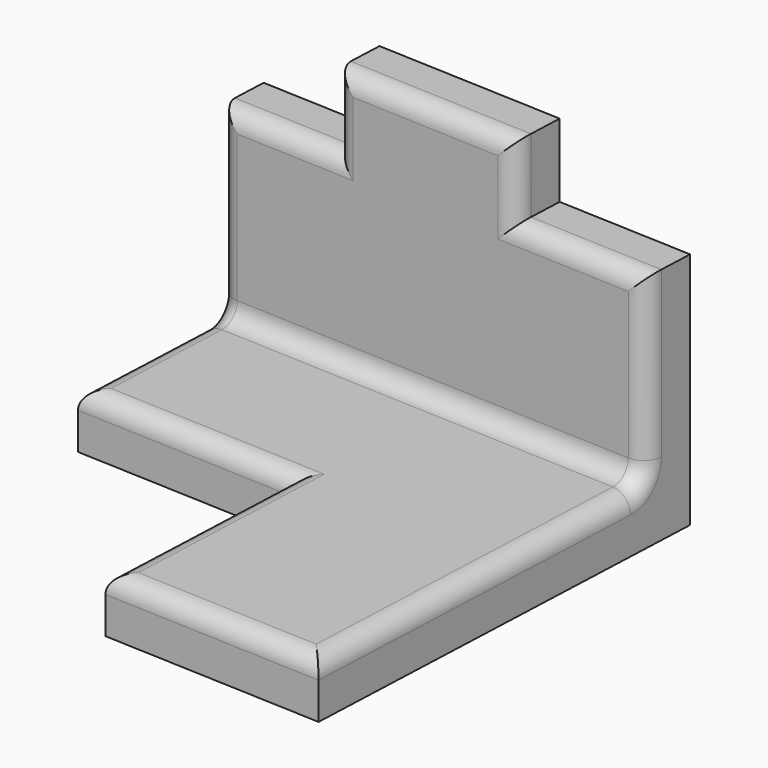
from build123d import *

# Parameters (mm, degrees)
F1_DEPTH = 15
F0_W     = 120.46892941
F0_H     = 14.3122337759
F2_DEPTH = 65
F3_W     = 50.9056653827
F3_H     = 14.3122337759
F4_DEPTH = 20
F5_R     = 5
F6_ANGLE = 2.4061889728


with BuildPart() as f1:
    # F0 (on Top) → F1 (new body)
    with BuildSketch(Plane.XY):
        Polygon((60.234464705, 45.9222309291), (-60.234464705, 45.9222309291), (-60.234464705, 0), (0, 0), (0, -60.234464705), (60.234464705, -60.234464705), align=None)
    extrude(amount=F1_DEPTH)

    # F0 (on Top) → F2 (join)
    with BuildSketch(Plane.XY):
        with Locations((0, 53.0783478171)):
            Rectangle(F0_W, F0_H)
    extrude(amount=F2_DEPTH)

    # F3 (on face) → F4 (join)
    with BuildSketch(Plane.XY.offset(65)):
        with Locations((-2.0645121112, 53.0783478171)):
            Rectangle(F3_W, F3_H)
    extrude(amount=F4_DEPTH)

    # F5
    f5_edges = [f1.edges().sort_by_distance(p)[0] for p in [
        (0, 45.922231, 15),
        (-60.234465, 45.922231, 40),
        (-43.875905, 45.922231, 65),
        (-27.517345, 45.922231, 75),
        (-2.064512, 45.922231, 85),
        (23.388321, 45.922231, 75),
        (41.811393, 45.922231, 65),
        (60.234465, 45.922231, 40),
        (-60.234465, 22.961115, 15),
        (-30.117232, 0, 15),
        (0, -30.117232, 15),
        (30.117232, -60.234465, 15),
        (60.234465, -7.156117, 15),
    ]]
    fillet(f5_edges, radius=F5_R)


with BuildPart() as f1_1:
    # F6: moved
    add(f1.part.rotate(Axis((60.234464705, 60.234464705, 32.5), (0, 0, -1)), F6_ANGLE))


solid = f1_1.part
